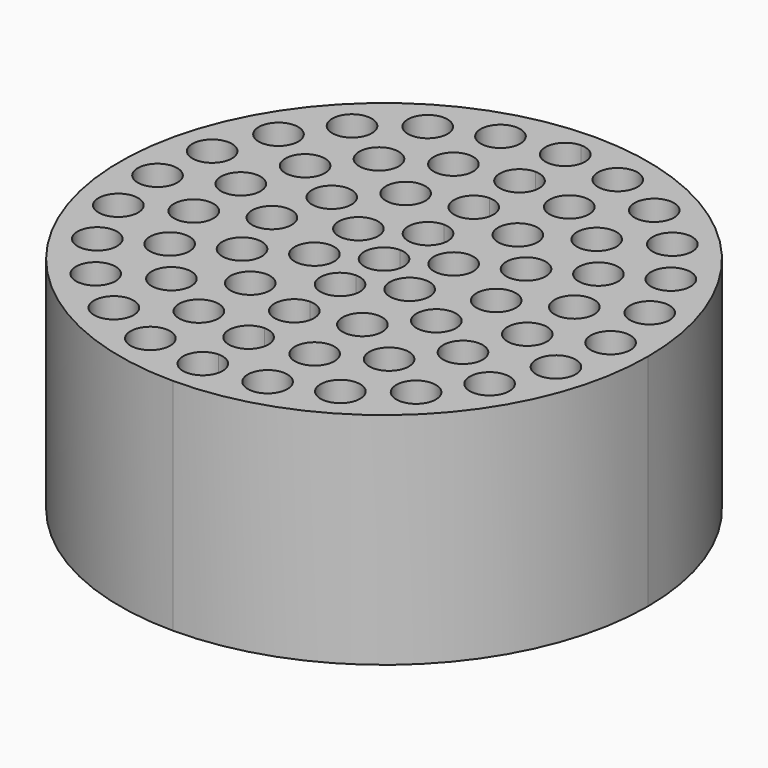
from build123d import *

# Parameters (mm, degrees)
F0_R     = 2.25
F1_DEPTH = 25


with BuildPart() as f1:
    # F0 (on Top) → F1 (new body)
    with BuildSketch(Plane.XY):
        with BuildLine():
            ThreePointArc((0, -30), (21.213203, -21.213203), (30, 0))
            ThreePointArc((30, 0), (21.213203, 21.213203), (0, 30))
            Line((0, 30), (0, 28))
            ThreePointArc((0, 28), (1.59099, 27.34099), (2.25, 25.75))
            ThreePointArc((2.25, 25.75), (1.59099, 24.15901), (0, 23.5))
            Line((0, 23.5), (0, 21.5))
            ThreePointArc((0, 21.5), (1.59099, 20.84099), (2.25, 19.25))
            ThreePointArc((2.25, 19.25), (1.59099, 17.65901), (0, 17))
            Line((0, 17), (0, 15))
            ThreePointArc((0, 15), (1.59099, 14.34099), (2.25, 12.75))
            ThreePointArc((2.25, 12.75), (1.59099, 11.15901), (0, 10.5))
            Line((0, 10.5), (0, 8.5))
            ThreePointArc((0, 8.5), (1.59099, 7.84099), (2.25, 6.25))
            ThreePointArc((2.25, 6.25), (1.59099, 4.65901), (0, 4))
            Line((0, 4), (0, 2.25))
            ThreePointArc((0, 2.25), (1.59099, 1.59099), (2.25, 0))
            ThreePointArc((2.25, 0), (1.59099, -1.59099), (0, -2.25))
            Line((0, -2.25), (0, -4))
            ThreePointArc((0, -4), (1.59099, -4.65901), (2.25, -6.25))
            ThreePointArc((2.25, -6.25), (1.59099, -7.84099), (0, -8.5))
            Line((0, -8.5), (0, -10.5))
            ThreePointArc((0, -10.5), (1.59099, -11.15901), (2.25, -12.75))
            ThreePointArc((2.25, -12.75), (1.59099, -14.34099), (0, -15))
            Line((0, -15), (0, -17))
            ThreePointArc((0, -17), (1.59099, -17.65901), (2.25, -19.25))
            ThreePointArc((2.25, -19.25), (1.59099, -20.84099), (0, -21.5))
            Line((0, -21.5), (0, -23.5))
            ThreePointArc((0, -23.5), (1.59099, -24.15901), (2.25, -25.75))
            ThreePointArc((2.25, -25.75), (1.59099, -27.34099), (0, -28))
            Line((0, -28), (0, -30))
        make_face()
        with Locations((6.66459, -24.87259)):
            Circle(F0_R, mode=Mode.SUBTRACT)
        with Locations((6.583888, -18.089083)):
            Circle(F0_R, mode=Mode.SUBTRACT)
        with Locations((12.875, -22.300154)):
            Circle(F0_R, mode=Mode.SUBTRACT)
        with Locations((18.208, -18.208)):
            Circle(F0_R, mode=Mode.SUBTRACT)
        with Locations((6.375, -11.041824)):
            Circle(F0_R, mode=Mode.SUBTRACT)
        with Locations((12.373661, -14.746356)):
            Circle(F0_R, mode=Mode.SUBTRACT)
        with Locations((5.412659, -3.125)):
            Circle(F0_R, mode=Mode.SUBTRACT)
        with Locations((11.041824, -6.375)):
            Circle(F0_R, mode=Mode.SUBTRACT)
        with Locations((22.300154, -12.875)):
            Circle(F0_R, mode=Mode.SUBTRACT)
        with Locations((16.670989, -9.625)):
            Circle(F0_R, mode=Mode.SUBTRACT)
        with Locations((18.957549, -3.342727)):
            Circle(F0_R, mode=Mode.SUBTRACT)
        with Locations((24.87259, -6.66459)):
            Circle(F0_R, mode=Mode.SUBTRACT)
        with Locations((5.412659, 3.125)):
            Circle(F0_R, mode=Mode.SUBTRACT)
        with Locations((12.75, 0)):
            Circle(F0_R, mode=Mode.SUBTRACT)
        with Locations((11.041824, 6.375)):
            Circle(F0_R, mode=Mode.SUBTRACT)
        with Locations((6.375, 11.041824)):
            Circle(F0_R, mode=Mode.SUBTRACT)
        with Locations((12.373661, 14.746356)):
            Circle(F0_R, mode=Mode.SUBTRACT)
        with Locations((18.957549, 3.342727)):
            Circle(F0_R, mode=Mode.SUBTRACT)
        with Locations((25.75, 0)):
            Circle(F0_R, mode=Mode.SUBTRACT)
        with Locations((24.87259, 6.66459)):
            Circle(F0_R, mode=Mode.SUBTRACT)
        with Locations((16.670989, 9.625)):
            Circle(F0_R, mode=Mode.SUBTRACT)
        with Locations((22.300154, 12.875)):
            Circle(F0_R, mode=Mode.SUBTRACT)
        with Locations((6.583888, 18.089083)):
            Circle(F0_R, mode=Mode.SUBTRACT)
        with Locations((12.875, 22.300154)):
            Circle(F0_R, mode=Mode.SUBTRACT)
        with Locations((6.66459, 24.87259)):
            Circle(F0_R, mode=Mode.SUBTRACT)
        with Locations((18.208, 18.208)):
            Circle(F0_R, mode=Mode.SUBTRACT)
        with BuildLine():
            Line((0, 28), (0, 30))
            ThreePointArc((0, 30), (-30, 0), (0, -30))
            Line((0, -30), (0, -28))
            ThreePointArc((0, -28), (-2.25, -25.75), (0, -23.5))
            Line((0, -23.5), (0, -21.5))
            ThreePointArc((0, -21.5), (-2.25, -19.25), (0, -17))
            Line((0, -17), (0, -15))
            ThreePointArc((0, -15), (-2.25, -12.75), (0, -10.5))
            Line((0, -10.5), (0, -8.5))
            ThreePointArc((0, -8.5), (-2.25, -6.25), (0, -4))
            Line((0, -4), (0, -2.25))
            ThreePointArc((0, -2.25), (-2.25, 0), (0, 2.25))
            Line((0, 2.25), (0, 4))
            ThreePointArc((0, 4), (-2.25, 6.25), (0, 8.5))
            Line((0, 8.5), (0, 10.5))
            ThreePointArc((0, 10.5), (-2.25, 12.75), (0, 15))
            Line((0, 15), (0, 17))
            ThreePointArc((0, 17), (-2.25, 19.25), (0, 21.5))
            Line((0, 21.5), (0, 23.5))
            ThreePointArc((0, 23.5), (-2.25, 25.75), (0, 28))
        make_face()
        with Locations((-18.208, -18.208)):
            Circle(F0_R, mode=Mode.SUBTRACT)
        with Locations((-6.66459, -24.87259)):
            Circle(F0_R, mode=Mode.SUBTRACT)
        with Locations((-12.875, -22.300154)):
            Circle(F0_R, mode=Mode.SUBTRACT)
        with Locations((-6.583888, -18.089083)):
            Circle(F0_R, mode=Mode.SUBTRACT)
        with Locations((-22.300154, -12.875)):
            Circle(F0_R, mode=Mode.SUBTRACT)
        with Locations((-16.670989, -9.625)):
            Circle(F0_R, mode=Mode.SUBTRACT)
        with Locations((-24.87259, -6.66459)):
            Circle(F0_R, mode=Mode.SUBTRACT)
        with Locations((-18.957549, -3.342727)):
            Circle(F0_R, mode=Mode.SUBTRACT)
        with Locations((-12.373661, -14.746356)):
            Circle(F0_R, mode=Mode.SUBTRACT)
        with Locations((-6.375, -11.041824)):
            Circle(F0_R, mode=Mode.SUBTRACT)
        with Locations((-11.041824, -6.375)):
            Circle(F0_R, mode=Mode.SUBTRACT)
        with Locations((-5.412659, -3.125)):
            Circle(F0_R, mode=Mode.SUBTRACT)
        with Locations((-25.75, 0)):
            Circle(F0_R, mode=Mode.SUBTRACT)
        with Locations((-24.87259, 6.66459)):
            Circle(F0_R, mode=Mode.SUBTRACT)
        with Locations((-18.957549, 3.342727)):
            Circle(F0_R, mode=Mode.SUBTRACT)
        with Locations((-16.670989, 9.625)):
            Circle(F0_R, mode=Mode.SUBTRACT)
        with Locations((-22.300154, 12.875)):
            Circle(F0_R, mode=Mode.SUBTRACT)
        with Locations((-12.75, 0)):
            Circle(F0_R, mode=Mode.SUBTRACT)
        with Locations((-11.041824, 6.375)):
            Circle(F0_R, mode=Mode.SUBTRACT)
        with Locations((-5.412659, 3.125)):
            Circle(F0_R, mode=Mode.SUBTRACT)
        with Locations((-12.373661, 14.746356)):
            Circle(F0_R, mode=Mode.SUBTRACT)
        with Locations((-6.375, 11.041824)):
            Circle(F0_R, mode=Mode.SUBTRACT)
        with Locations((-18.208, 18.208)):
            Circle(F0_R, mode=Mode.SUBTRACT)
        with Locations((-12.875, 22.300154)):
            Circle(F0_R, mode=Mode.SUBTRACT)
        with Locations((-6.583888, 18.089083)):
            Circle(F0_R, mode=Mode.SUBTRACT)
        with Locations((-6.66459, 24.87259)):
            Circle(F0_R, mode=Mode.SUBTRACT)
    extrude(amount=F1_DEPTH)


solid = f1.part
